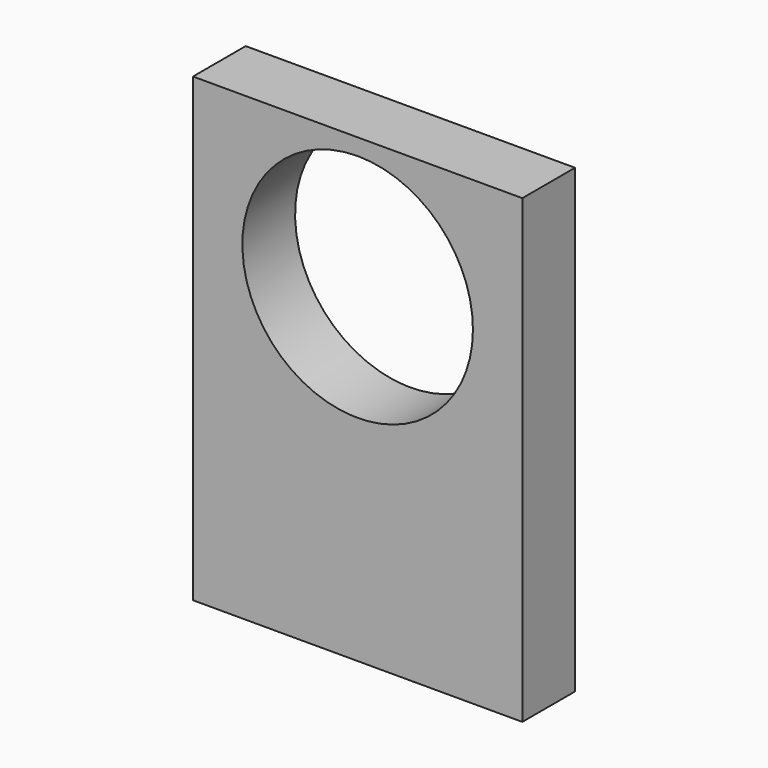
from build123d import *

# Parameters (mm, degrees)
F1_DEPTH = 12.7


with BuildPart() as f1:
    # F0 (on Front) → F1 (new body)
    with BuildSketch(Plane.XZ):
        with BuildLine():
            ThreePointArc((22.225, 19.05), (15.715448, 34.765448), (0, 41.275))
            ThreePointArc((0, 41.275), (-15.715448, 3.334552), (22.225, 19.05))
        make_face()
        Polygon((0, 44.45), (-31.75, 44.45), (-31.75, -44.45), (31.75, -44.45), (31.75, 44.45), align=None)
        with BuildLine():
            ThreePointArc((22.225, 19.05), (-15.715448, 3.334552), (0, 41.275))
            ThreePointArc((0, 41.275), (15.715448, 34.765448), (22.225, 19.05))
        make_face(mode=Mode.SUBTRACT)
    extrude(amount=F1_DEPTH)


solid = f1.part
